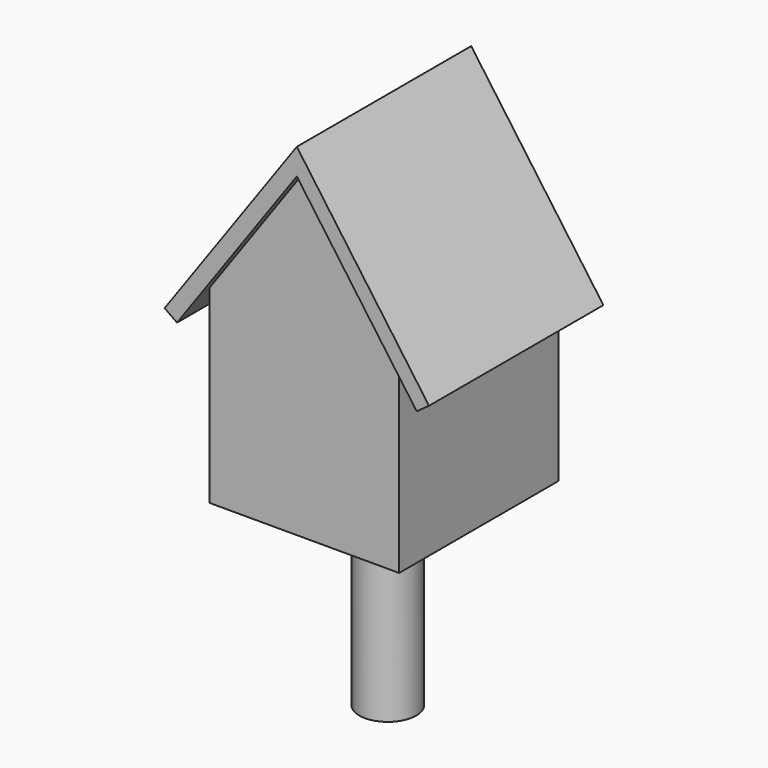
from build123d import *

# Parameters (mm, degrees)
F0_R     = 2.5
F0_R_2   = 5
F1_DEPTH = 2.5
F2_DEPTH = 50
F4_DEPTH = 2.5
F5_DEPTH = 55
F6_DEPTH = 2.5
F7_DEPTH = 15
F8_R     = 7.5
F9_DEPTH = 50


with BuildPart() as f1:
    # F0 (on Front) → F1 (new body)
    with BuildSketch(Plane.XZ):
        Polygon((22.5, 25), (22.5, 28.5), (0, 60), (-22.5, 28.5), (-22.5, 25), (-22.5, -22.5), (22.5, -22.5), align=None)
        with Locations((0, 15)):
            Circle(F0_R, mode=Mode.SUBTRACT)
        with Locations((0, 25)):
            Circle(F0_R_2, mode=Mode.SUBTRACT)
        with Locations((0, 15)):
            Circle(F0_R)
    extrude(amount=F1_DEPTH)

    # F0 (on Front) → F2 (join)
    with BuildSketch(Plane.XZ):
        Polygon((-25, -25), (25, -25), (25, 25), (22.5, 28.5), (22.5, 25), (22.5, -22.5), (-22.5, -22.5), (-22.5, 25), (-22.5, 28.5), (-25, 25), align=None)
    extrude(amount=F2_DEPTH)

    # F3 (on face) → F4 (join)
    with BuildSketch(Plane.XZ.offset(50)):
        Polygon((22.5, 28.5), (22.5, 25), (22.5, -22.5), (-22.5, -22.5), (-22.5, 25), (-22.5, 28.5), (-25, 25), (-25, -25), (25, -25), (25, 25), align=None)
        Polygon((22.5, -22.5), (22.5, 25), (22.5, 28.5), (0, 60), (-22.5, 28.5), (-22.5, 25), (-22.5, -22.5), align=None)
    extrude(amount=F4_DEPTH)

    # F0 (on Front) → F5 (join)
    with BuildSketch(Plane.XZ):
        Polygon((22.5, 28.5), (25, 25), (31.619358, 15.732899), (34.874292, 18.057852), (0, 66.88186), (-34.874292, 18.057852), (-31.619358, 15.732899), (-25, 25), (-22.5, 28.5), (0, 60), align=None)
    extrude(amount=F5_DEPTH)

    # F0 (on Front) → F6 (join)
    with BuildSketch(Plane.XZ):
        Polygon((22.5, 28.5), (25, 25), (31.619358, 15.732899), (34.874292, 18.057852), (0, 66.88186), (-34.874292, 18.057852), (-31.619358, 15.732899), (-25, 25), (-22.5, 28.5), (0, 60), align=None)
    extrude(amount=-F6_DEPTH)

    # F0 (on Front) → F7 (join)
    with BuildSketch(Plane.XZ):
        with Locations((0, 15)):
            Circle(F0_R)
    extrude(amount=-F7_DEPTH)

    # F8 (on face) → F9 (join)
    with BuildSketch(Plane(origin=(0, 0, -25), x_dir=(1, 0, 0), z_dir=(0, 0, -1))):
        with Locations((0, 25)):
            Circle(F8_R)
    extrude(amount=F9_DEPTH)


solid = f1.part
